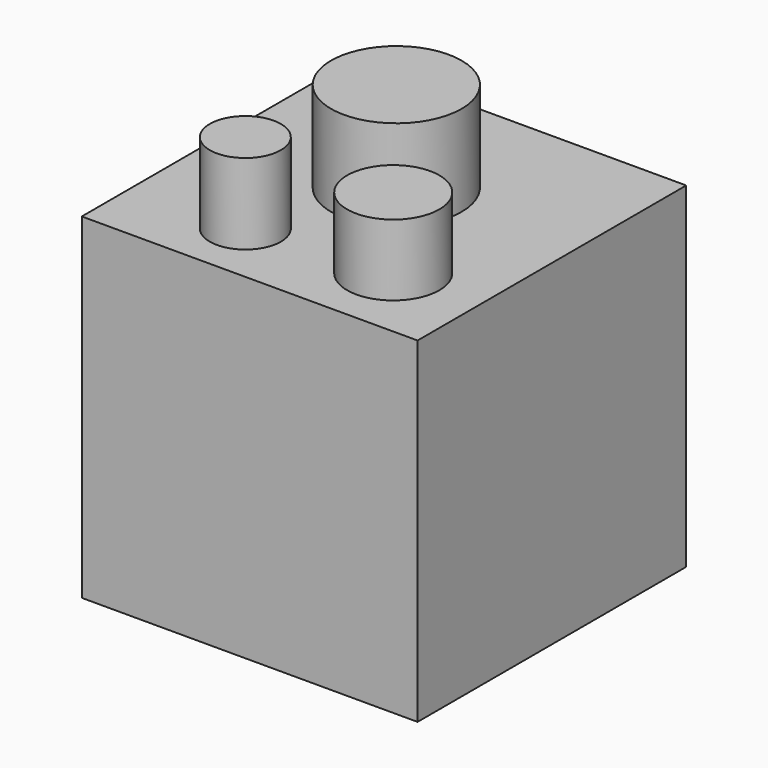
from build123d import *

# Parameters (mm, degrees)
F0_W     = 25.4
F0_H     = 25.4
F1_DEPTH = 25.4
F2_R     = 4.940733
F3_DEPTH = 6.858
F4_R     = 2.6877
F5_DEPTH = 6.096
F6_R     = 3.488924
F7_DEPTH = 5.3848


with BuildPart() as f1:
    # F0 (on Front) → F1 (new body)
    with BuildSketch(Plane.XZ):
        with Locations((0.491789, -0.80908)):
            Rectangle(F0_W, F0_H)
    extrude(amount=F1_DEPTH)

    # F2 (on face) → F3 (join)
    with BuildSketch(Plane.XY.offset(11.89092)):
        with Locations((0, -10.92047)):
            Circle(F2_R)
    extrude(amount=F3_DEPTH)

    # F4 (on face) → F5 (join)
    with BuildSketch(Plane.XY.offset(11.89092)):
        with Locations((-3.695844, -20.576853)):
            Circle(F4_R)
    extrude(amount=F5_DEPTH)

    # F6 (on face) → F7 (join)
    with BuildSketch(Plane.XY.offset(11.89092)):
        with Locations((6.692471, -19.577978)):
            Circle(F6_R)
    extrude(amount=F7_DEPTH)


solid = f1.part
